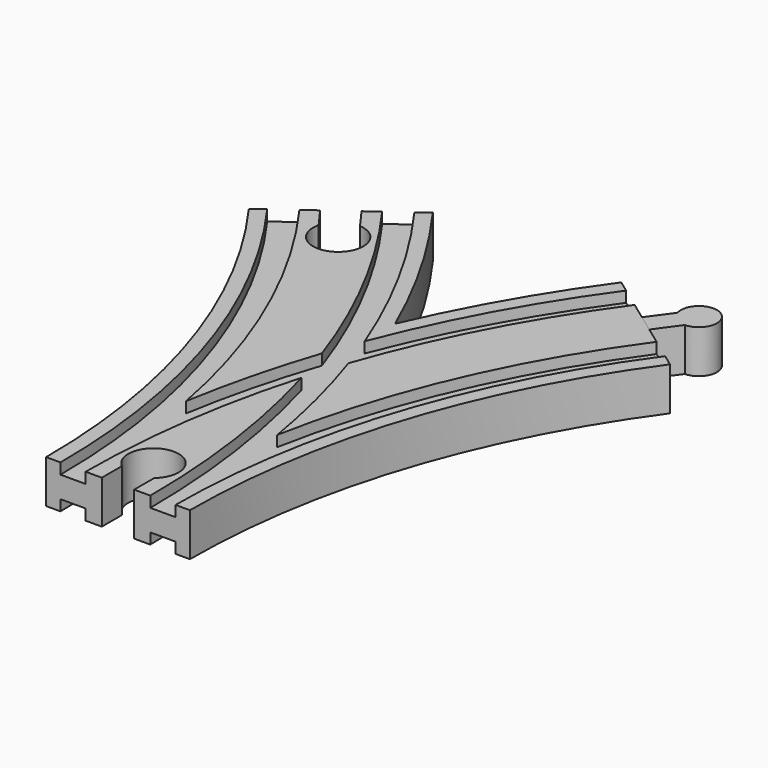
from build123d import *

# Parameters (mm, degrees)
SKETCH003_W          = 7
SKETCH003_H          = 3
SKETCH004_W          = 7
SKETCH004_H          = 3
SKETCH005_W          = 7
SKETCH005_H          = 3
SKETCH006_W          = 7
SKETCH006_H          = 3
POCKET_DEPTH         = 6.001
POCKET_DEPTH_BACK    = -6.001
POCKET001_DEPTH      = 6.001
POCKET001_DEPTH_BACK = -6.001
PAD001_DEPTH         = 6


with BuildPart() as main:
    # AdditivePipe: sweep along a path in Sketch
    with BuildLine(Plane.XY) as additivepipe_path:
        ThreePointArc((0, 0), (-10.865453, 68.601773), (-42.398227, 130.488326))
    # Sketch002 → AdditivePipe (sweep)
    with BuildSketch(Plane.XZ):
        Polygon((-20, 6), (-20, -6), (-16, -6), (-16, -3), (-9, -3), (-9, -6), (9, -6), (9, -3), (16, -3), (16, -6), (20, -6), (20, 6), (16, 6), (16, 3), (9, 3), (9, 6), (-9, 6), (-9, 3), (-16, 3), (-16, 6), align=None)
    sweep(path=additivepipe_path.line)

    # AdditivePipe001: sweep along a path in Sketch001
    with BuildLine(Plane.XY) as additivepipe001_path:
        ThreePointArc((42.398227, 130.488326), (10.865453, 68.601773), (0, 0))
    # Sketch002 → AdditivePipe001 (sweep)
    with BuildSketch(Plane.XZ):
        Polygon((-20, 6), (-20, -6), (-16, -6), (-16, -3), (-9, -3), (-9, -6), (9, -6), (9, -3), (16, -3), (16, -6), (20, -6), (20, 6), (16, 6), (16, 3), (9, 3), (9, 6), (-9, 6), (-9, 3), (-16, 3), (-16, 6), align=None)
    sweep(path=additivepipe001_path.line)

    # SubtractivePipe: sweep along a path in Sketch
    with BuildLine(Plane.XY) as subtractivepipe_path:
        ThreePointArc((0, 0), (-10.865453, 68.601773), (-42.398227, 130.488326))
    # Sketch003 → SubtractivePipe (sweep, cut)
    with BuildSketch(Plane.XZ):
        with Locations((-12.5, 4.5)):
            Rectangle(SKETCH003_W, SKETCH003_H)
    sweep(path=subtractivepipe_path.line, mode=Mode.SUBTRACT)

    # SubtractivePipe001: sweep along a path in Sketch001
    with BuildLine(Plane.XY) as subtractivepipe001_path:
        ThreePointArc((42.398227, 130.488326), (10.865453, 68.601773), (0, 0))
    # Sketch003 → SubtractivePipe001 (sweep, cut)
    with BuildSketch(Plane.XZ):
        with Locations((-12.5, 4.5)):
            Rectangle(SKETCH003_W, SKETCH003_H)
    sweep(path=subtractivepipe001_path.line, mode=Mode.SUBTRACT)

    # SubtractivePipe002: sweep along a path in Sketch
    with BuildLine(Plane.XY) as subtractivepipe002_path:
        ThreePointArc((0, 0), (-10.865453, 68.601773), (-42.398227, 130.488326))
    # Sketch004 → SubtractivePipe002 (sweep, cut)
    with BuildSketch(Plane.XZ):
        with Locations((12.5, 4.5)):
            Rectangle(SKETCH004_W, SKETCH004_H)
    sweep(path=subtractivepipe002_path.line, mode=Mode.SUBTRACT)

    # SubtractivePipe003: sweep along a path in Sketch001
    with BuildLine(Plane.XY) as subtractivepipe003_path:
        ThreePointArc((42.398227, 130.488326), (10.865453, 68.601773), (0, 0))
    # Sketch004 → SubtractivePipe003 (sweep, cut)
    with BuildSketch(Plane.XZ):
        with Locations((12.5, 4.5)):
            Rectangle(SKETCH004_W, SKETCH004_H)
    sweep(path=subtractivepipe003_path.line, mode=Mode.SUBTRACT)

    # SubtractivePipe004: sweep along a path in Sketch
    with BuildLine(Plane.XY) as subtractivepipe004_path:
        ThreePointArc((0, 0), (-10.865453, 68.601773), (-42.398227, 130.488326))
    # Sketch005 → SubtractivePipe004 (sweep, cut)
    with BuildSketch(Plane.XZ):
        with Locations((-12.5, -4.5)):
            Rectangle(SKETCH005_W, SKETCH005_H)
    sweep(path=subtractivepipe004_path.line, mode=Mode.SUBTRACT)

    # SubtractivePipe005: sweep along a path in Sketch001
    with BuildLine(Plane.XY) as subtractivepipe005_path:
        ThreePointArc((42.398227, 130.488326), (10.865453, 68.601773), (0, 0))
    # Sketch005 → SubtractivePipe005 (sweep, cut)
    with BuildSketch(Plane.XZ):
        with Locations((-12.5, -4.5)):
            Rectangle(SKETCH005_W, SKETCH005_H)
    sweep(path=subtractivepipe005_path.line, mode=Mode.SUBTRACT)

    # SubtractivePipe006: sweep along a path in Sketch
    with BuildLine(Plane.XY) as subtractivepipe006_path:
        ThreePointArc((0, 0), (-10.865453, 68.601773), (-42.398227, 130.488326))
    # Sketch006 → SubtractivePipe006 (sweep, cut)
    with BuildSketch(Plane.XZ):
        with Locations((12.5, -4.5)):
            Rectangle(SKETCH006_W, SKETCH006_H)
    sweep(path=subtractivepipe006_path.line, mode=Mode.SUBTRACT)

    # SubtractivePipe007: sweep along a path in Sketch001
    with BuildLine(Plane.XY) as subtractivepipe007_path:
        ThreePointArc((42.398227, 130.488326), (10.865453, 68.601773), (0, 0))
    # Sketch006 → SubtractivePipe007 (sweep, cut)
    with BuildSketch(Plane.XZ):
        with Locations((12.5, -4.5)):
            Rectangle(SKETCH006_W, SKETCH006_H)
    sweep(path=subtractivepipe007_path.line, mode=Mode.SUBTRACT)

    # Sketch007 → Pocket (cut, two sides)
    with BuildSketch(Plane.XY) as pocket_sk:
        with BuildLine():
            Line((-4.5, 0), (4.5, 0))
            Line((4.5, 0), (4.5, 7))
            ThreePointArc((4.5, 7), (0, 19.361903), (-4.5, 7))
            Line((-4.5, 0), (-4.5, 7))
        make_face()
    extrude(amount=-POCKET_DEPTH, mode=Mode.SUBTRACT)
    extrude(pocket_sk.sketch, amount=-POCKET_DEPTH_BACK, mode=Mode.SUBTRACT)

    # Sketch008 → Pocket001 (cut, two sides)
    with BuildSketch(Plane.XY) as pocket001_sk:
        with BuildLine():
            Line((-46.038804, 127.843292), (-38.757651, 133.13336))
            Line((-38.757651, 133.13336), (-34.643154, 127.470241))
            ThreePointArc((-41.924307, 122.180173), (-31.017586, 114.824218), (-34.643154, 127.470241))
            Line((-46.038804, 127.843292), (-41.924307, 122.180173))
        make_face()
    extrude(amount=-POCKET001_DEPTH, mode=Mode.SUBTRACT)
    extrude(pocket001_sk.sketch, amount=-POCKET001_DEPTH_BACK, mode=Mode.SUBTRACT)


with BuildPart() as male3:
    # Sketch011 → Pad001 (new body, symmetric)
    with BuildSketch(Plane.XY):
        with BuildLine():
            Line((39.971176, 132.251682), (44.825278, 128.72497))
            Line((44.825278, 128.72497), (49.52756, 135.197106))
            ThreePointArc((49.52756, 135.197106), (52.390577, 144.241615), (44.673458, 138.723818))
            Line((39.971176, 132.251682), (44.673458, 138.723818))
        make_face()
    extrude(amount=PAD001_DEPTH, both=True)


solid = Compound([main.part, male3.part])
